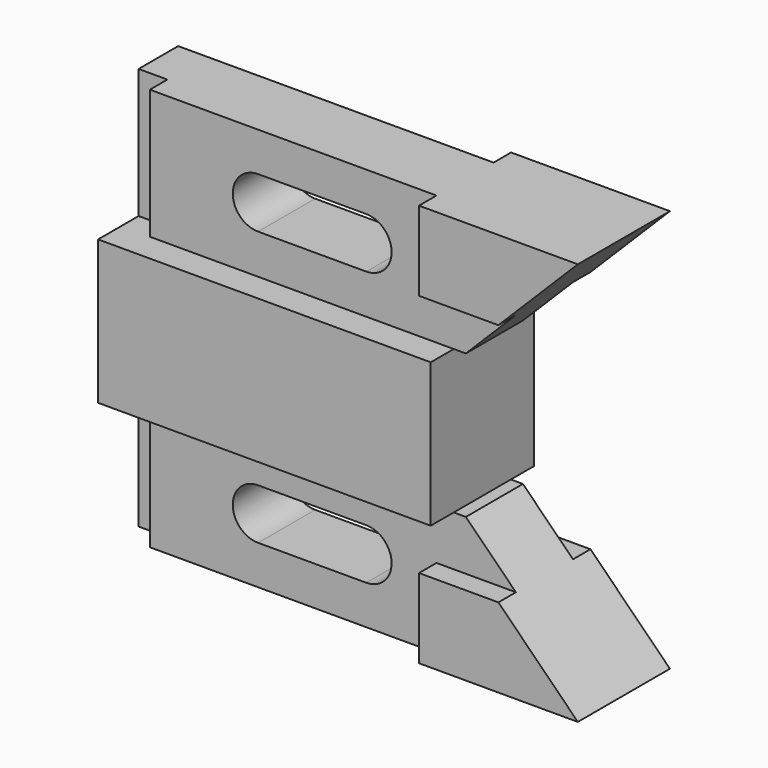
from build123d import *

# Parameters (mm, degrees)
F1_DEPTH      = 14.224
F2_DEPTH      = 7.874
F3_DEPTH      = 12.7
F0_W          = 6.35
F0_H          = 28.575
F4_DEPTH      = 3.048
F4_DEPTH_BACK = 7.874


with BuildPart() as f1:
    # F0 (on Front) → F1 (new body, symmetric)
    with BuildSketch(Plane.XZ):
        Polygon((73.406, -15.875), (73.406, 0), (6.35, 0), (0, 0), (0, -15.875), align=None)
    extrude(amount=F1_DEPTH, both=True)

    # F0 (on Front) → F2 (join, symmetric)
    with BuildSketch(Plane.XZ):
        Polygon((73.406, 0), (76.073, 0), (87.122, 11.049), (69.596, 11.049), (69.596, 28.575), (6.35, 28.575), (6.35, 0), align=None)
        with BuildLine():
            ThreePointArc((30.226, 8.763), (24.638, 14.351), (30.226, 19.939))
            Line((30.226, 19.939), (54.102, 19.939))
            ThreePointArc((54.102, 19.939), (59.69, 14.351), (54.102, 8.763))
            Line((54.102, 8.763), (30.226, 8.763))
        make_face(mode=Mode.SUBTRACT)
    extrude(amount=F2_DEPTH, both=True)

    # F0 (on Front) → F3 (join, symmetric)
    with BuildSketch(Plane.XZ):
        Polygon((69.596, 11.049), (87.122, 11.049), (104.648, 28.575), (69.596, 28.575), align=None)
    extrude(amount=F3_DEPTH, both=True)

    # F0 (on Front) → F4 (join, two sides)
    with BuildSketch(Plane.XZ) as f4_sk:
        with Locations((3.175, 14.2875)):
            Rectangle(F0_W, F0_H)
    extrude(amount=F4_DEPTH)
    extrude(f4_sk.sketch, amount=-F4_DEPTH_BACK)

    # F5: F1 across face


with BuildPart() as f1_1:
    add(f1.part)
    add(f1.part.mirror(Plane(origin=(36.703, 0, -15.875), x_dir=(1, 0, 0), z_dir=(0, 0, -1))))


solid = f1_1.part
